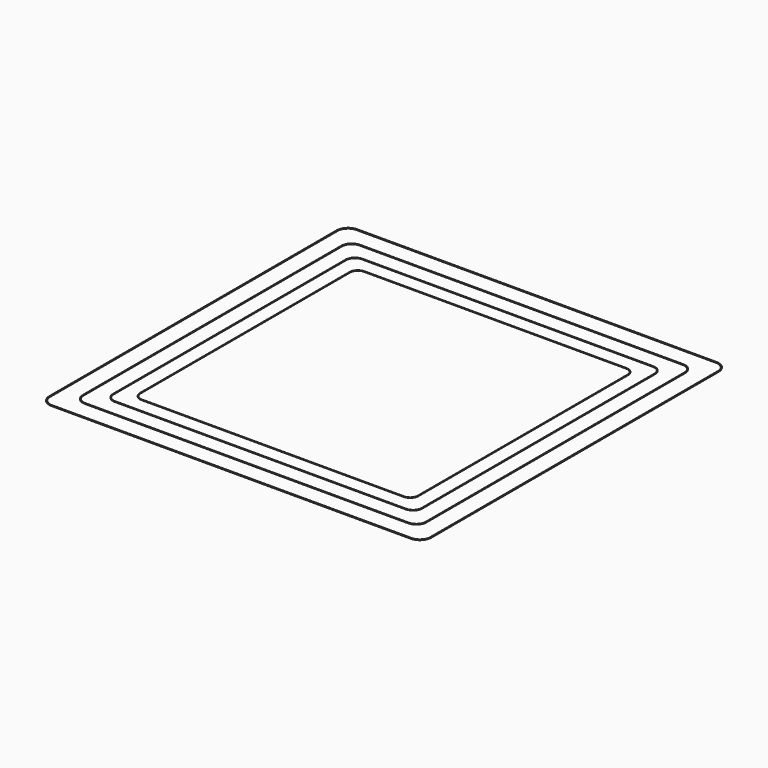
from build123d import *

# Parameters (mm, degrees)
F1_DEPTH = 0.2
F2_SCALE = 0.9
F3_SCALE = 0.9
F4_SCALE = 0.9


with BuildPart() as f1:
    # F0 (on Top) → F1 (new body)
    with BuildSketch(Plane.XY):
        with BuildLine():
            Line((90.42, -85), (90.42, 85))
            ThreePointArc((90.42, 85), (88.832518754, 88.832518754), (85, 90.42))
            Line((85, 90.42), (-85, 90.42))
            ThreePointArc((-85, 90.42), (-88.832518754, 88.832518754), (-90.42, 85))
            Line((-90.42, 85), (-90.42, -85))
            ThreePointArc((-90.42, -85), (-88.832518754, -88.832518754), (-85, -90.42))
            Line((-85, -90.42), (85, -90.42))
            ThreePointArc((85, -90.42), (88.832518754, -88.832518754), (90.42, -85))
        make_face()
        with BuildLine():
            Line((-85, 90), (85, 90))
            ThreePointArc((85, 90), (88.5355339059, 88.5355339059), (90, 85))
            Line((90, 85), (90, -85))
            ThreePointArc((90, -85), (88.5355339059, -88.5355339059), (85, -90))
            Line((85, -90), (-85, -90))
            ThreePointArc((-85, -90), (-88.5355339059, -88.5355339059), (-90, -85))
            Line((-90, -85), (-90, 85))
            ThreePointArc((-90, 85), (-88.5355339059, 88.5355339059), (-85, 90))
        make_face(mode=Mode.SUBTRACT)
    extrude(amount=F1_DEPTH)


with BuildPart() as f2_1:
    # F2: copy of F1
    add(f1.part.scale(F2_SCALE))


with BuildPart() as f3_1:
    # F3: copy of F2_1
    add(f2_1.part.scale(F3_SCALE))


with BuildPart() as f4_1:
    # F4: copy of F3_1
    add(f3_1.part.scale(F4_SCALE))


solid = Compound([f1.part, f2_1.part, f3_1.part, f4_1.part])
